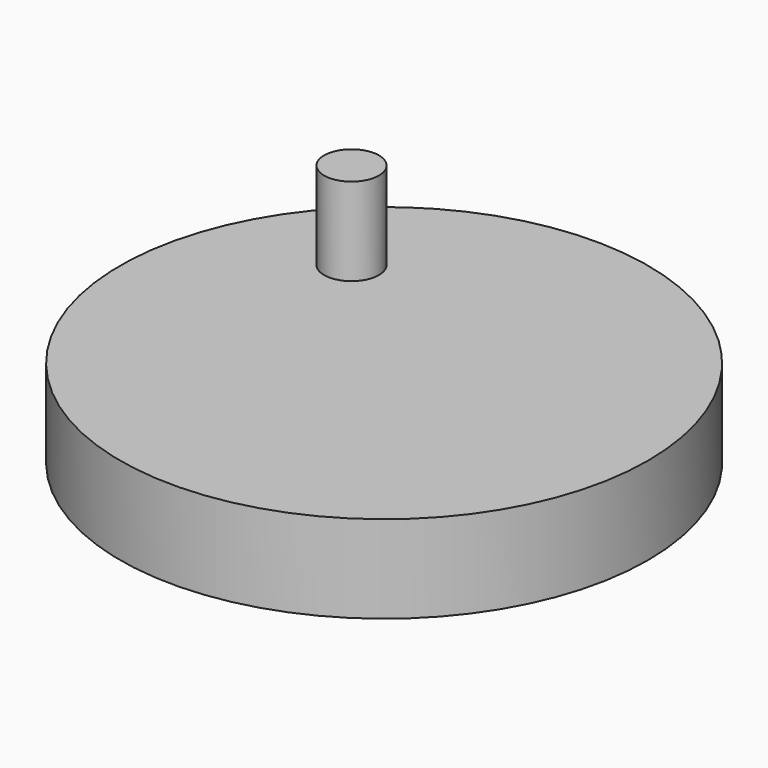
from build123d import *

# Parameters (mm, degrees)
F0_R     = 76.51913
F1_DEPTH = 25.4
F2_R     = 7.9375
F3_DEPTH = 50.8
F4_R     = 12.7
F5_DEPTH = 25.4


with BuildPart() as f1:
    # F0 (on Top) → F1 (new body)
    with BuildSketch(Plane.XY):
        Circle(F0_R)
    extrude(amount=F1_DEPTH)

    # F2 (on Top) → F3 (join)
    with BuildSketch(Plane.XY):
        with Locations((-35.814576, 32.962088)):
            Circle(F2_R)
    extrude(amount=F3_DEPTH)

    # F4 (on Top) → F5 (join)
    with BuildSketch(Plane.XY):
        Circle(F4_R)
    extrude(amount=-F5_DEPTH)


solid = f1.part
